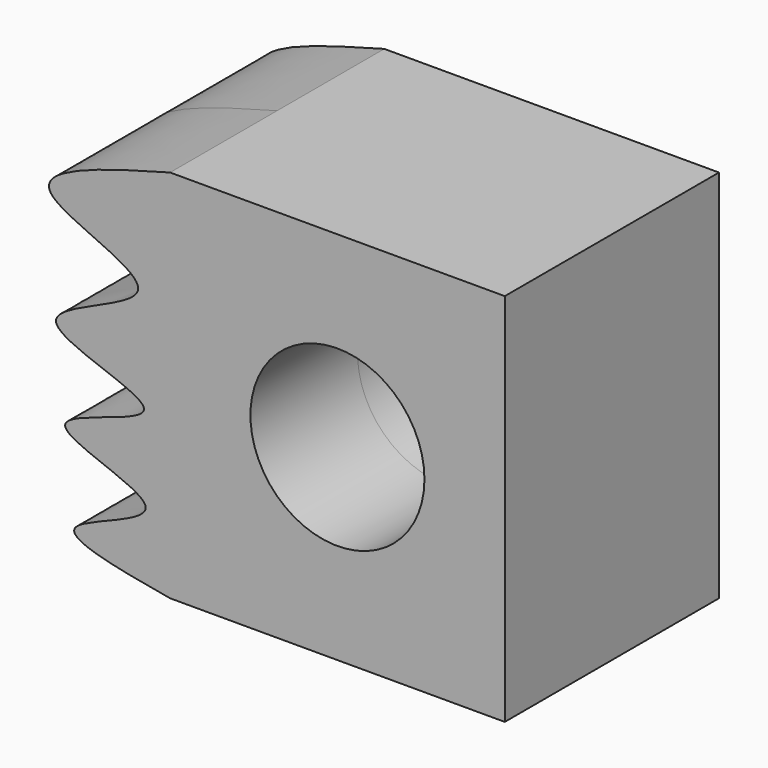
from build123d import *

# Parameters (mm, degrees)
F0_W     = 63.5
F0_H     = 71.12
F0_R     = 16.51
F1_DEPTH = 25.4


with BuildPart() as f1:
    # F0 (on Front) → F1 (new body, symmetric)
    with BuildSketch(Plane.XZ):
        with BuildLine():
            Line((-31.75, -35.56), (-31.75, 35.56))
            add(Edge.make_bspline(
                [(-31.75, 35.56), (-45.2256532398, 31.9597140257), (-67.9360583008, 25.3325329559), (-22.9740281518, 14.0239232417), (-69.1990406129, 3.3406599142), (-21.2055521663, -5.7603862659), (-66.402543105, -12.8324214786), (-23.1389779137, -21.5630260449), (-60.8439804451, -30.3276113497), (-41.8229713254, -33.8059006526), (-31.75, -35.56)],
                knots=[0, 0, 0, 0, 0.1443518809, 0.2719648823, 0.3966755362, 0.5226690311, 0.640703983, 0.7615119685, 0.8745701534, 1, 1, 1, 1], degree=3))
        make_face()
        Rectangle(F0_W, F0_H)
        Circle(F0_R, mode=Mode.SUBTRACT)
    extrude(amount=F1_DEPTH, both=True)


solid = f1.part
